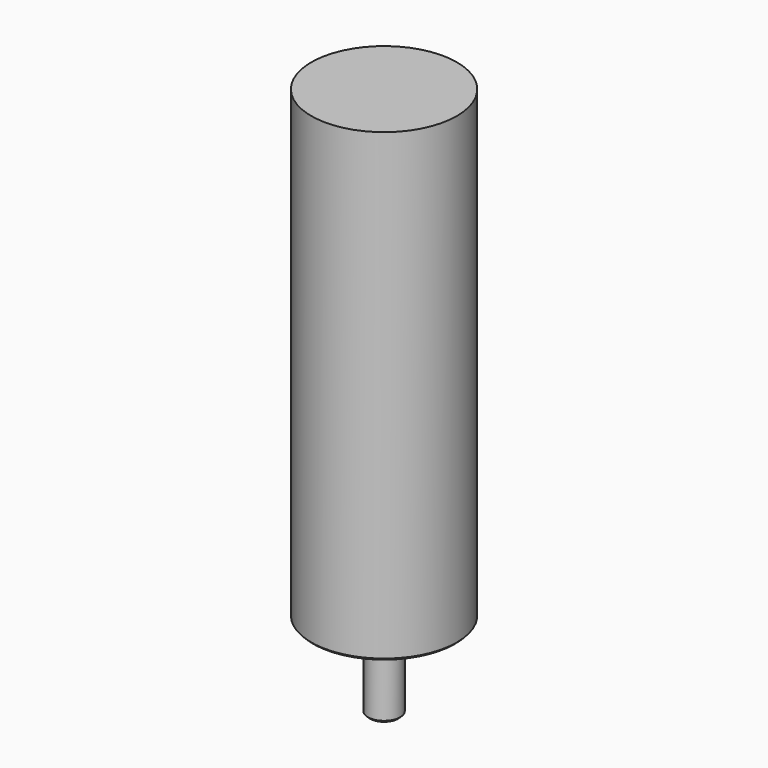
from build123d import *

# Parameters (mm, degrees)
F0_R      = 22.5
F1_DEPTH  = 143.8402
F2_R      = 13
F3_DEPTH  = 1.905
F4_R      = 6
F5_DEPTH  = 0.635
F6_R      = 5
F7_DEPTH  = 23.495
F10_DEPTH = 20.0499
F11_R     = 0.635
F12_DEPTH = 23.495
F13_R     = 1.5875
F14_DEPTH = 12.7
F15_SIZE  = 0.635


with BuildPart() as f1:
    # F0 (on Top) → F1 (new body)
    with BuildSketch(Plane.XY):
        Circle(F0_R)
    extrude(amount=-F1_DEPTH)

    # F2 (on face) → F3 (join)
    with BuildSketch(Plane(origin=(0, 0, -143.8402), x_dir=(1, 0, 0), z_dir=(0, 0, -1))):
        Circle(F2_R)
    extrude(amount=F3_DEPTH)

    # F4 (on face) → F5 (join)
    with BuildSketch(Plane(origin=(0, 0, -145.7452), x_dir=(1, 0, 0), z_dir=(0, 0, -1))):
        Circle(F4_R)
    extrude(amount=F5_DEPTH)

    # F6 (on face) → F7 (join)
    with BuildSketch(Plane(origin=(0, 0, -146.3802), x_dir=(1, 0, 0), z_dir=(0, 0, -1))):
        Circle(F6_R)
    extrude(amount=F7_DEPTH)

    # F9 (on offset) → F10 (cut, through all)
    with BuildSketch(Plane.XZ.offset(-2.4511)):
        with BuildLine():
            Line((-1.9812, -169.8752), (0, -169.8752))
            Line((0, -169.8752), (1.9812, -169.8752))
            Line((1.9812, -169.8752), (1.9812, -151.7396))
            ThreePointArc((1.9812, -151.7396), (0, -149.7584), (-1.9812, -151.7396))
            Line((-1.9812, -151.7396), (-1.9812, -169.8752))
        make_face()
    extrude(amount=-F10_DEPTH, mode=Mode.SUBTRACT)

    # F11 (on face) → F12 (cut)
    with BuildSketch(Plane(origin=(0, 0, -169.8752), x_dir=(1, 0, 0), z_dir=(0, 0, -1))):
        Circle(F11_R)
    extrude(amount=-F12_DEPTH, mode=Mode.SUBTRACT)

    # F13 (on face) → F14 (cut)
    with BuildSketch(Plane(origin=(0, 0, -143.8402), x_dir=(1, 0, 0), z_dir=(0, 0, -1))):
        with Locations((0, 17.375)):
            Circle(F13_R)
        with Locations((-17.375, 0)):
            Circle(F13_R)
        with Locations((0, -17.375)):
            Circle(F13_R)
        with Locations((17.375, 0)):
            Circle(F13_R)
    extrude(amount=-F14_DEPTH, mode=Mode.SUBTRACT)

    # F15
    f15_edges = [f1.edges().sort_by_distance(p)[0] for p in [
        (-0.635, 0, -169.8752),
        (-18.9625, 0, -143.8402),
        (-1.5875, 17.375, -143.8402),
        (15.7875, 0, -143.8402),
        (-1.5875, -17.375, -143.8402),
        (-2.74718, -4.177679, -169.8752),
        (-13, 0, -145.7452),
        (-22.5, 0, -143.8402),
    ]]
    chamfer(f15_edges, length=F15_SIZE)


solid = f1.part
